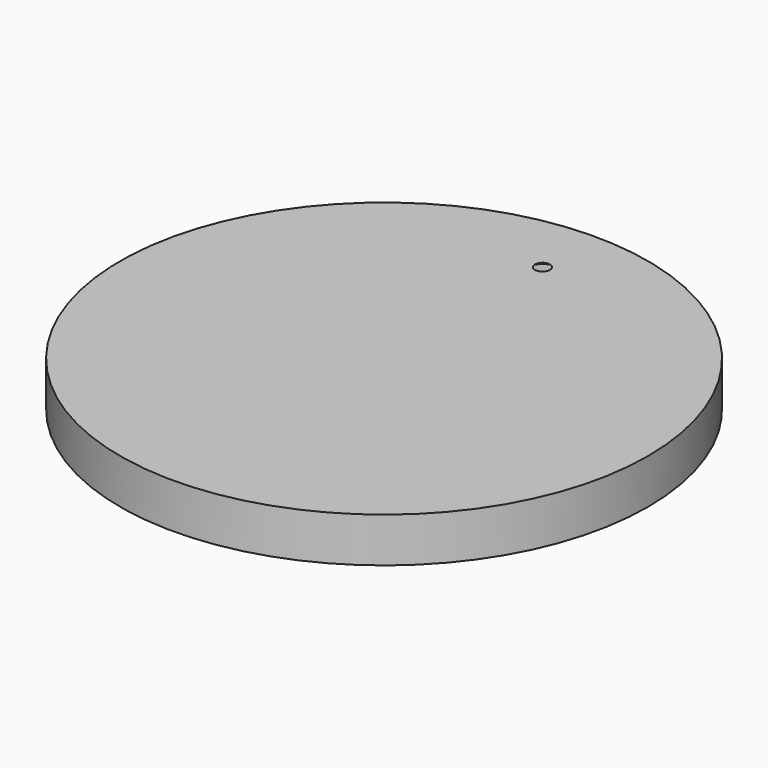
from build123d import *

# Parameters (mm, degrees)
F0_R     = 74.93
F1_DEPTH = 6.35
F3_D     = 12.7
F3_DEPTH = 10.16
F3_TIP   = 3.8154649308


with BuildPart() as f1:
    # F0 (on Top) → F1 (new body, symmetric)
    with BuildSketch(Plane.XY):
        Circle(F0_R)
    extrude(amount=F1_DEPTH, both=True)

    # F3
    with Locations(Plane(origin=(0, 0, -6.35), x_dir=(1, 0, 0), z_dir=(0, 0, -1))):
        with Locations((0, -56.1975)):
            Hole(F3_D / 2, depth=F3_DEPTH)
            with Locations((0, 0, -(F3_DEPTH + F3_TIP / 2))):  # 118° drill point
                Cone(0, F3_D / 2, F3_TIP, mode=Mode.SUBTRACT)


solid = f1.part
